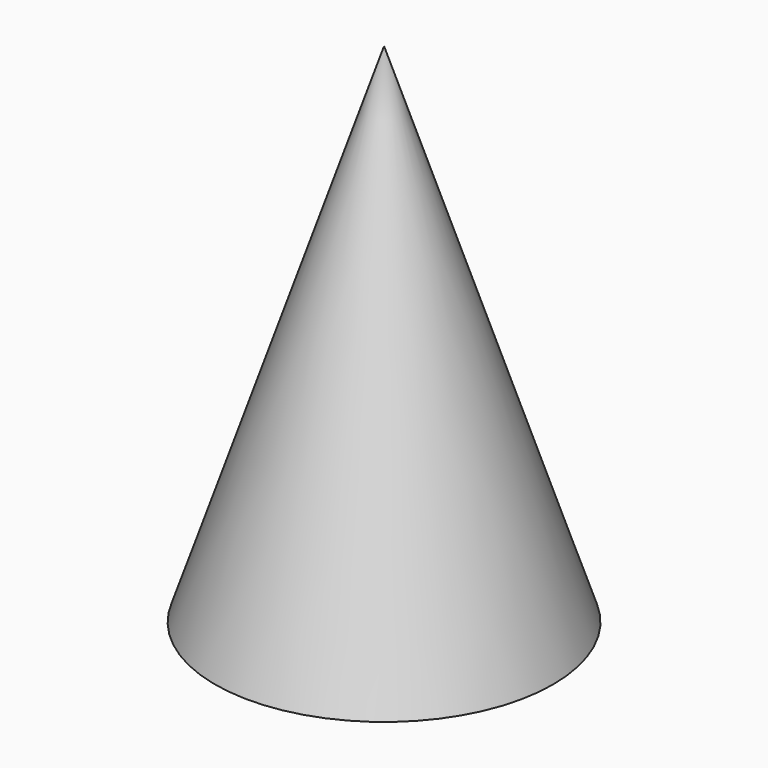
from build123d import *

# Parameters (mm, degrees)
F2_T = -1


with BuildPart() as f1:
    # F0 (on Front) → F1 (revolve)
    with BuildSketch(Plane.XZ):
        Polygon((0, 76.2), (0, 0), (25.4, 0), align=None)
    revolve(axis=Axis((0, 0, 38.1), (0, 0, 1)))

    # F2
    f2_openings = [f1.faces().sort_by_distance(p)[0] for p in [
        (0, 0, 0),
    ]]
    offset(amount=F2_T, openings=f2_openings)


solid = f1.part
